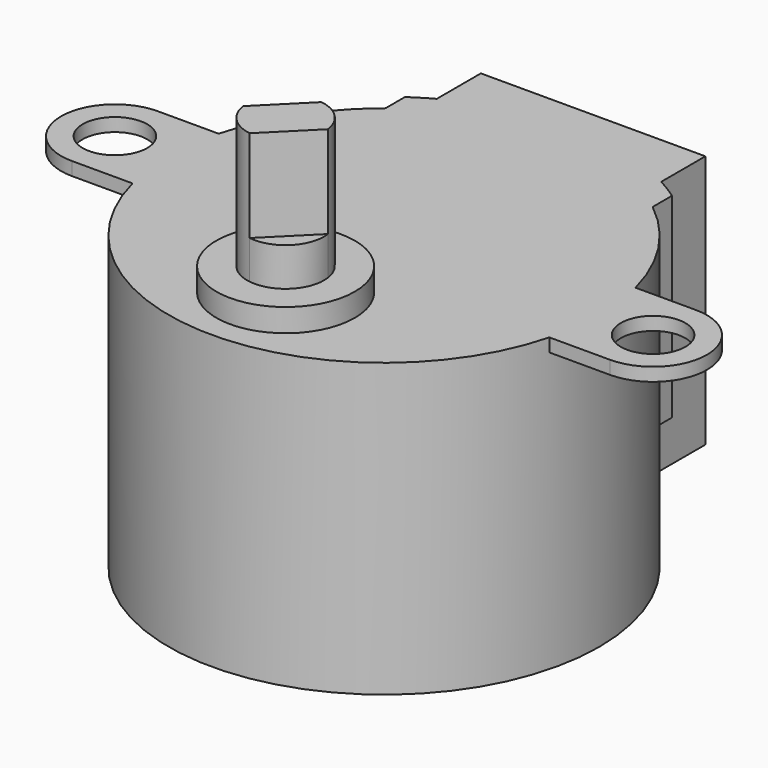
from build123d import *

# Parameters (mm, degrees)
F0_R      = 14
F5_DEPTH  = 19
F2_W      = 14.6
F2_H      = 5.053871
F6_DEPTH  = 16.51
F7_DEPTH  = 12.7
F3_R      = 2.1
F8_DEPTH  = 0.8636
F9_DEPTH  = 10
F10_DEPTH = 4
F4_R      = 4.5
F11_DEPTH = 1.5


with BuildPart() as f5:
    # F0 (on Top) → F5 (new body)
    with BuildSketch(Plane.XY):
        Circle(F0_R)
    extrude(amount=-F5_DEPTH)

    # F2 (on Top) → F6 (join)
    with BuildSketch(Plane.XY):
        with Locations((0, 14.473064)):
            Rectangle(F2_W, F2_H)
    extrude(amount=-F6_DEPTH)

    # F1 (on Top) → F7 (join)
    with BuildSketch(Plane.XY):
        with BuildLine():
            ThreePointArc((-8.6868, 10.979048), (0, 14), (8.6868, 10.979048))
            Line((8.6868, 10.979048), (8.6868, 12.55836))
            ThreePointArc((8.6868, 12.55836), (0, 15.27), (-8.6868, 12.55836))
            Line((-8.6868, 12.55836), (-8.6868, 10.979048))
        make_face()
    extrude(amount=-F7_DEPTH)

    # F3 (on Top) → F8 (join)
    with BuildSketch(Plane.XY):
        with BuildLine():
            Line((17.5, 3.5), (-17.5, 3.5))
            ThreePointArc((-17.5, 3.5), (-21, 0), (-17.5, -3.5))
            Line((-17.5, -3.5), (17.5, -3.5))
            ThreePointArc((17.5, -3.5), (21, 0), (17.5, 3.5))
        make_face()
        with Locations((-17.5, 0)):
            Circle(F3_R, mode=Mode.SUBTRACT)
        with Locations((17.5, 0)):
            Circle(F3_R, mode=Mode.SUBTRACT)
    extrude(amount=-F8_DEPTH)

    # F4 (on Top) → F9 (join)
    with BuildSketch(Plane.XY):
        Polygon((0.353553, -5.525126), (-2.474874, -8.353553), (-0.353553, -10.474874), (2.474874, -7.646447), align=None)
        with BuildLine():
            Line((-0.353553, -10.474874), (-2.474874, -8.353553))
            ThreePointArc((-2.474874, -8.353553), (-1.767767, -9.767767), (-0.353553, -10.474874))
        make_face()
        with BuildLine():
            ThreePointArc((2.474874, -7.646447), (1.767767, -6.232233), (0.353553, -5.525126))
            Line((0.353553, -5.525126), (2.474874, -7.646447))
        make_face()
    extrude(amount=F9_DEPTH)

    # F4 (on Top) → F10 (join)
    with BuildSketch(Plane.XY):
        with BuildLine():
            Line((2.474874, -7.646447), (-0.353553, -10.474874))
            ThreePointArc((-0.353553, -10.474874), (1.767767, -9.767767), (2.474874, -7.646447))
        make_face()
        with BuildLine():
            ThreePointArc((0.353553, -5.525126), (-1.767767, -6.232233), (-2.474874, -8.353553))
            Line((-2.474874, -8.353553), (0.353553, -5.525126))
        make_face()
    extrude(amount=F10_DEPTH)

    # F4 (on Top) → F11 (join)
    with BuildSketch(Plane.XY):
        with Locations((0, -8)):
            Circle(F4_R)
        with BuildLine():
            ThreePointArc((-0.353553, -10.474874), (-1.767767, -9.767767), (-2.474874, -8.353553))
            ThreePointArc((-2.474874, -8.353553), (-1.767767, -6.232233), (0.353553, -5.525126))
            ThreePointArc((0.353553, -5.525126), (1.767767, -6.232233), (2.474874, -7.646447))
            ThreePointArc((2.474874, -7.646447), (1.767767, -9.767767), (-0.353553, -10.474874))
        make_face(mode=Mode.SUBTRACT)
        with BuildLine():
            Line((2.474874, -7.646447), (-0.353553, -10.474874))
            ThreePointArc((-0.353553, -10.474874), (1.767767, -9.767767), (2.474874, -7.646447))
        make_face()
    extrude(amount=F11_DEPTH)


solid = f5.part
